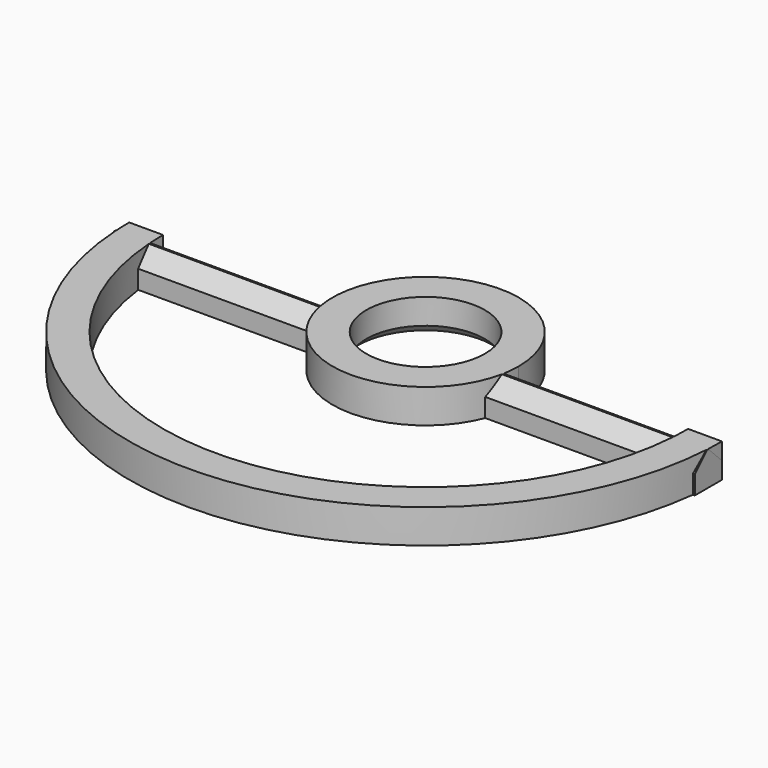
from build123d import *

# Parameters (mm, degrees)
BOX_W             = 43
BOX_H             = 27
BOX_DEPTH         = 10
CYLINDER001_R     = 15.5
CYLINDER001_DEPTH = 9
CYLINDER002_R     = 17.5
CYLINDER002_DEPTH = 2
CYLINDER_R        = 3.5
CYLINDER_DEPTH    = 10
CYLINDER003_R     = 5.5
CYLINDER003_DEPTH = 2
CYLINDER004_R     = 5
CYLINDER004_DEPTH = 10
BOX001_W          = 35
BOX001_H          = 2
BOX001_DEPTH      = 2
CHAMFER_SIZE      = 1
CHAMFER001_SIZE   = 0.9
CHAMFER002_SIZE   = 1
CHAMFER003_SIZE   = 0.9
CHAMFER004_SIZE   = 0.5


with BuildPart() as cube:
    # Box → Box (new body)
    with BuildSketch(Plane(origin=(-22, 0, -1), x_dir=(1, 0, 0), z_dir=(0, 0, 1))):
        with Locations((21.5, 13.5)):
            Rectangle(BOX_W, BOX_H)
    extrude(amount=BOX_DEPTH)


with BuildPart() as cylinder001:
    # Cylinder001 → Cylinder001 (new body)
    with BuildSketch(Plane.XY.offset(-1)):
        Circle(CYLINDER001_R)
    extrude(amount=CYLINDER001_DEPTH)


with BuildPart() as cut001:
    # Cylinder002 → Cylinder002 (new body)
    with BuildSketch(Plane.XY):
        Circle(CYLINDER002_R)
    extrude(amount=CYLINDER002_DEPTH)

    # Cut: cut Cylinder001
    add(cylinder001.part, mode=Mode.SUBTRACT)

    # Cut001: cut Cube
    add(cube.part, mode=Mode.SUBTRACT)


with BuildPart() as cylinder:
    # Cylinder → Cylinder (new body)
    with BuildSketch(Plane.XY.offset(-3)):
        Circle(CYLINDER_R)
    extrude(amount=CYLINDER_DEPTH)


with BuildPart() as cut002:
    # Cylinder003 → Cylinder003 (new body)
    with BuildSketch(Plane.XY):
        Circle(CYLINDER003_R)
    extrude(amount=CYLINDER003_DEPTH)

    # Cut002: cut Cylinder
    add(cylinder.part, mode=Mode.SUBTRACT)


with BuildPart() as cylinder004:
    # Cylinder004 → Cylinder004 (new body)
    with BuildSketch(Plane.XY.offset(-3)):
        Circle(CYLINDER004_R)
    extrude(amount=CYLINDER004_DEPTH)


with BuildPart() as prop_guard:
    # Box001 → Box001 (new body)
    with BuildSketch(Plane(origin=(-17.5, -2, 0), x_dir=(1, 0, 0), z_dir=(0, 0, 1))):
        with Locations((17.5, 1)):
            Rectangle(BOX001_W, BOX001_H)
    extrude(amount=BOX001_DEPTH)

    # Cut003: cut Cylinder004
    add(cylinder004.part, mode=Mode.SUBTRACT)

    # Chamfer
    chamfer_edges = [prop_guard.edges().sort_by_distance(p)[0] for p in [
        (11.25, 0, 2),
    ]]
    chamfer(chamfer_edges, length=CHAMFER_SIZE)

    # Chamfer001
    chamfer001_edges = [prop_guard.edges().sort_by_distance(p)[0] for p in [
        (11.041288, -2, 2),
    ]]
    chamfer(chamfer001_edges, length=CHAMFER001_SIZE)

    # Chamfer002
    chamfer002_edges = [prop_guard.edges().sort_by_distance(p)[0] for p in [
        (-11.25, 0, 2),
    ]]
    chamfer(chamfer002_edges, length=CHAMFER002_SIZE)

    # Chamfer003
    chamfer003_edges = [prop_guard.edges().sort_by_distance(p)[0] for p in [
        (-11.041288, -2, 2),
    ]]
    chamfer(chamfer003_edges, length=CHAMFER003_SIZE)

    # Fusion: union Cut001, Cut002
    add(cut001.part)
    add(cut002.part)

    # Chamfer004
    chamfer004_edges = [prop_guard.edges().sort_by_distance(p)[0] for p in [
        (-3.5, 0, 0),
    ]]
    chamfer(chamfer004_edges, length=CHAMFER004_SIZE)


solid = prop_guard.part
